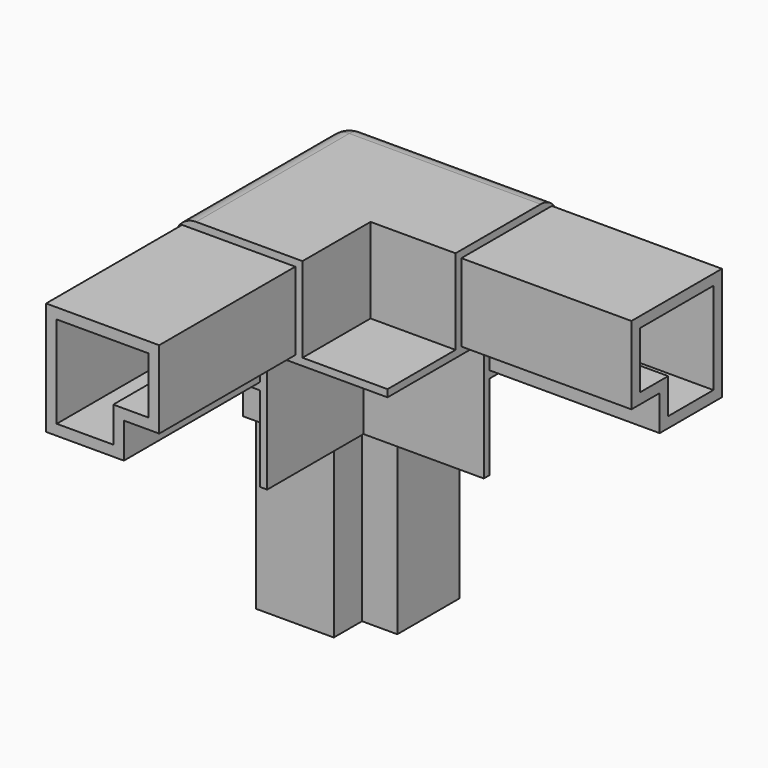
from build123d import *

# Parameters (mm, degrees)
F1_DEPTH  = 50
F3_DEPTH  = 50
F5_DEPTH  = 50
F7_DEPTH  = 90
F9_DEPTH  = 90
F11_DEPTH = 90
F12_R     = 5


with BuildPart() as f1:
    # F0 (on Front) → F1 (new body)
    with BuildSketch(Plane.XZ):
        Polygon((30, 0), (0, 0), (0, -30), (20, -30), (20, -50), (21.7, -50), (21.7, -21.7), (50, -21.7), (50, -20), (30, -20), align=None)
        Polygon((28.3, -20), (20, -20), (20, -28.3), (1.7, -28.3), (1.7, -1.7), (28.3, -1.7), align=None, mode=Mode.SUBTRACT)
    extrude(amount=F1_DEPTH)

    # F2 (on Right) → F3 (join)
    with BuildSketch(Plane.YZ):
        Polygon((0, -30), (0, 0), (-30, 0), (-30, -20), (-50, -20), (-50, -21.7), (-21.7, -21.7), (-21.7, -50), (-20, -50), (-20, -30), align=None)
        Polygon((-28.3, -1.7), (-1.7, -1.7), (-1.7, -28.3), (-20, -28.3), (-20, -20), (-28.3, -20), align=None, mode=Mode.SUBTRACT)
    extrude(amount=F3_DEPTH)

    # F4 (on face) → F5 (join)
    with BuildSketch(Plane.XY):
        Polygon((30, 0), (0, 0), (0, -30), (20, -30), (20, -50), (21.7, -50), (21.7, -21.7), (50, -21.7), (50, -20), (30, -20), align=None)
        Polygon((28.3, -20), (20, -20), (20, -28.3), (1.7, -28.3), (1.7, -1.7), (28.3, -1.7), align=None, mode=Mode.SUBTRACT)
    extrude(amount=-F5_DEPTH)

    # F6 (on face) → F7 (join)
    with BuildSketch(Plane(origin=(0, 0, 0), x_dir=(0, -1, 0), z_dir=(-1, 0, 0))):
        Polygon((20, -1.7), (1.7, -1.7), (1.7, -20), (1.7, -21.7), (1.7, -28.3), (20, -28.3), (20, -21.7), (20, -20), (21.7, -20), (28.3, -20), (28.3, -1.7), (21.7, -1.7), align=None)
        Polygon((4.2, -20), (4.2, -4.2), (20, -4.2), (21.7, -4.2), (25.8, -4.2), (25.8, -17.5), (21.7, -17.5), (17.5, -17.5), (17.5, -21.7), (17.5, -25.8), (4.2, -25.8), (4.2, -21.7), align=None, mode=Mode.SUBTRACT)
    extrude(amount=-F7_DEPTH)

    # F8 (on face) → F9 (join)
    with BuildSketch(Plane(origin=(0, 0, 0), x_dir=(-1, 0, 0), z_dir=(0, 1, 0))):
        Polygon((-1.7, -20), (-1.7, -1.7), (-20, -1.7), (-21.7, -1.7), (-28.3, -1.7), (-28.3, -20), (-21.7, -20), (-20, -20), (-20, -21.7), (-20, -28.3), (-1.7, -28.3), (-1.7, -21.7), align=None)
        Polygon((-20, -4.2), (-4.2, -4.2), (-4.2, -20), (-4.2, -21.7), (-4.2, -25.8), (-17.5, -25.8), (-17.5, -21.7), (-17.5, -17.5), (-21.7, -17.5), (-25.8, -17.5), (-25.8, -4.2), (-21.7, -4.2), align=None, mode=Mode.SUBTRACT)
    extrude(amount=-F9_DEPTH)

    # F10 (on face) → F11 (join)
    with BuildSketch(Plane.XY):
        Polygon((20, -1.7), (1.7, -1.7), (1.7, -20), (1.7, -21.7), (1.7, -28.3), (20, -28.3), (20, -21.7), (20, -20), (21.7, -20), (28.3, -20), (28.3, -1.7), (21.7, -1.7), align=None)
        Polygon((4.2, -25.8), (4.2, -21.7), (4.2, -20), (4.2, -4.2), (20, -4.2), (21.7, -4.2), (25.8, -4.2), (25.8, -17.5), (21.7, -17.5), (17.5, -17.5), (17.5, -21.7), (17.5, -25.8), align=None, mode=Mode.SUBTRACT)
    extrude(amount=-F11_DEPTH)

    # F12
    f12_edges = [f1.edges().sort_by_distance(p)[0] for p in [
        (0, -25, 0),
        (0, 0, -25),
        (25, 0, 0),
    ]]
    fillet(f12_edges, radius=F12_R)


solid = f1.part
